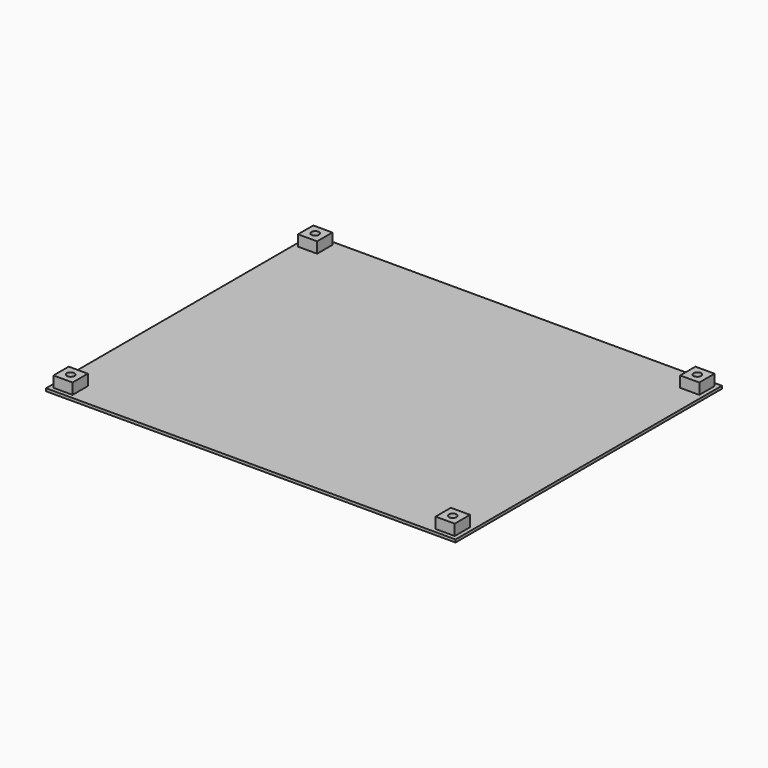
from build123d import *

# Parameters (mm, degrees)
F0_W     = 150
F0_H     = 122
F1_DEPTH = 1
F2_W     = 7
F2_H     = 7
F2_R     = 1.4
F3_DEPTH = 4


with BuildPart() as f1:
    # F0 (on Top) → F1 (new body)
    with BuildSketch(Plane.XY):
        Rectangle(F0_W, F0_H)
    extrude(amount=F1_DEPTH)

    # F2 (on face) → F3 (join)
    with BuildSketch(Plane.XY.offset(1)):
        with Locations((-70, 56)):
            Rectangle(F2_W, F2_H)
        with Locations((-70, 56)):
            Circle(F2_R, mode=Mode.SUBTRACT)
        with Locations((70, 56)):
            Rectangle(F2_W, F2_H)
        with Locations((70, 56)):
            Circle(F2_R, mode=Mode.SUBTRACT)
        with Locations((-70, -56)):
            Rectangle(F2_W, F2_H)
        with Locations((-70, -56)):
            Circle(F2_R, mode=Mode.SUBTRACT)
        with Locations((70, -56)):
            Rectangle(F2_W, F2_H)
        with Locations((70, -56)):
            Circle(F2_R, mode=Mode.SUBTRACT)
    extrude(amount=F3_DEPTH)


solid = f1.part
